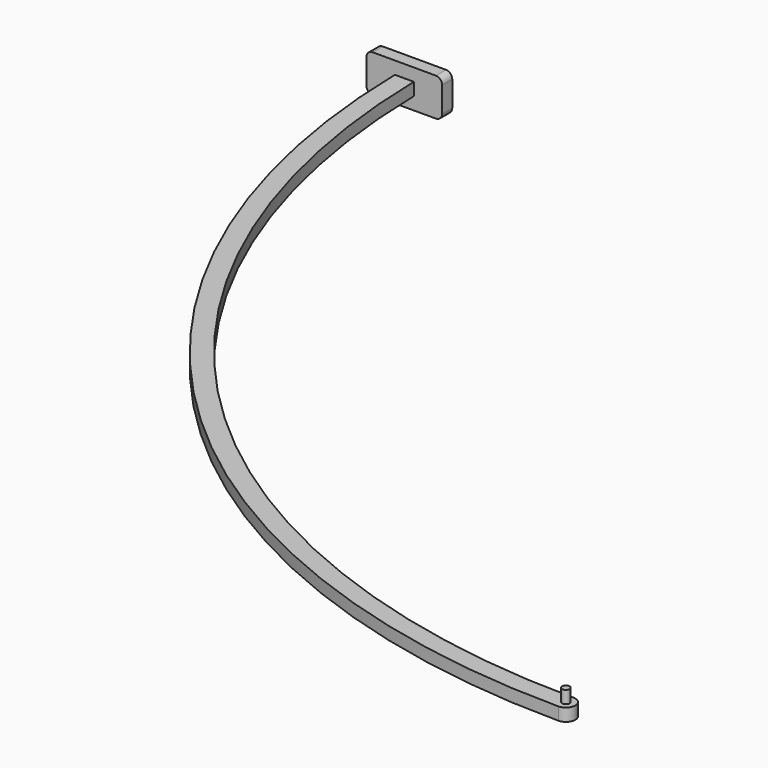
from build123d import *

# Parameters (mm, degrees)
PAD_DEPTH    = 0.25
PAD001_DEPTH = 0.5
SKETCH003_R  = 0.15
PAD002_DEPTH = 0.5


with BuildPart() as part:
    # Sketch → Pad (new body, symmetric)
    with BuildSketch(Plane.XY):
        with BuildLine():
            Line((-0.375, 0), (0, 0))
            Line((0, 0), (0.375, 0))
            ThreePointArc((0.375, 0), (9.051962, -20.948038), (30, -29.625))
            ThreePointArc((30.000004, -30.375), (30.375, -29.999998), (30, -29.625))
            ThreePointArc((-0.375, 0), (8.521633, -21.47837), (30.000004, -30.375))
        make_face()
    extrude(amount=PAD_DEPTH, both=True)

    # Sketch002 → Pad001 (join)
    with BuildSketch(Plane.XZ):
        with BuildLine():
            ThreePointArc((-1.25, 0.75), (-1.426777, 0.676777), (-1.5, 0.5))
            Line((-1.5, -0.5), (-1.5, 0.5))
            ThreePointArc((-1.5, -0.5), (-1.426777, -0.676777), (-1.25, -0.75))
            Line((1.25, -0.75), (-1.25, -0.75))
            ThreePointArc((1.25, -0.75), (1.426777, -0.676777), (1.5, -0.5))
            Line((1.5, 0.5), (1.5, -0.5))
            ThreePointArc((1.5, 0.5), (1.426777, 0.676777), (1.25, 0.75))
            Line((-1.25, 0.75), (1.25, 0.75))
        make_face()
    extrude(amount=PAD001_DEPTH)

    # Sketch003 (on DatumPlane) → Pad002 (join)
    with BuildSketch(Plane(origin=(30, -30, 0.25), x_dir=(1, 0, 0), z_dir=(0, 0, 1))):
        Circle(SKETCH003_R)
    extrude(amount=PAD002_DEPTH)


solid = part.part
